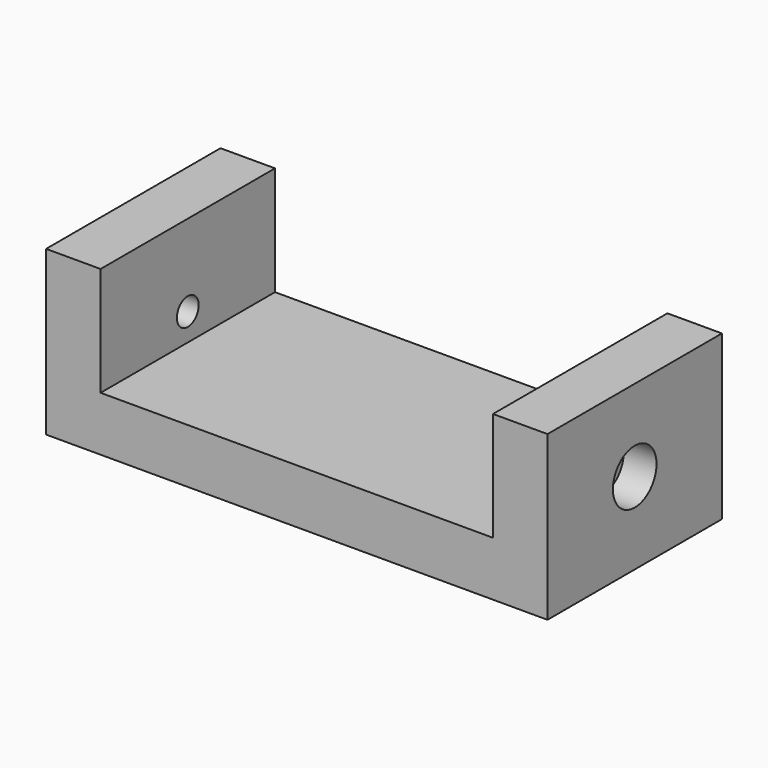
from build123d import *

# Parameters (mm, degrees)
PAD_DEPTH       = 20
SKETCH001_R     = 1.25
POCKET_DEPTH    = 46.001
SKETCH002_R     = 2.5
POCKET001_DEPTH = 3
SKETCH003_R     = 2.5
POCKET002_DEPTH = 3


with BuildPart() as part:
    # Sketch (on XZ_Plane of Origin) → Pad (new body)
    with BuildSketch(Plane.XZ):
        Polygon((-19.90873, 15), (-19.90873, 0), (26.09127, 0), (26.09127, 15), (21.09127, 15), (21.09127, 5), (-14.90873, 5), (-14.90873, 15), align=None)
    extrude(amount=PAD_DEPTH)

    # Sketch001 (on Face3 of Pad) → Pocket (cut, through all)
    with BuildSketch(Plane.YZ.offset(26.09127)):
        with Locations((-10, 7.5)):
            Circle(SKETCH001_R)
    extrude(amount=-POCKET_DEPTH, mode=Mode.SUBTRACT)

    # Sketch002 (on Face1 of Pocket) → Pocket001 (cut)
    with BuildSketch(Plane(origin=(-19.90873, 0, 0), x_dir=(0, -1, 0), z_dir=(-1, 0, 0))):
        with Locations((10, 7.5)):
            Circle(SKETCH002_R)
    extrude(amount=-POCKET001_DEPTH, mode=Mode.SUBTRACT)

    # Sketch003 (on Face8 of Pocket001) → Pocket002 (cut)
    with BuildSketch(Plane.YZ.offset(26.09127)):
        with Locations((-10, 7.5)):
            Circle(SKETCH003_R)
    extrude(amount=-POCKET002_DEPTH, mode=Mode.SUBTRACT)


solid = part.part
